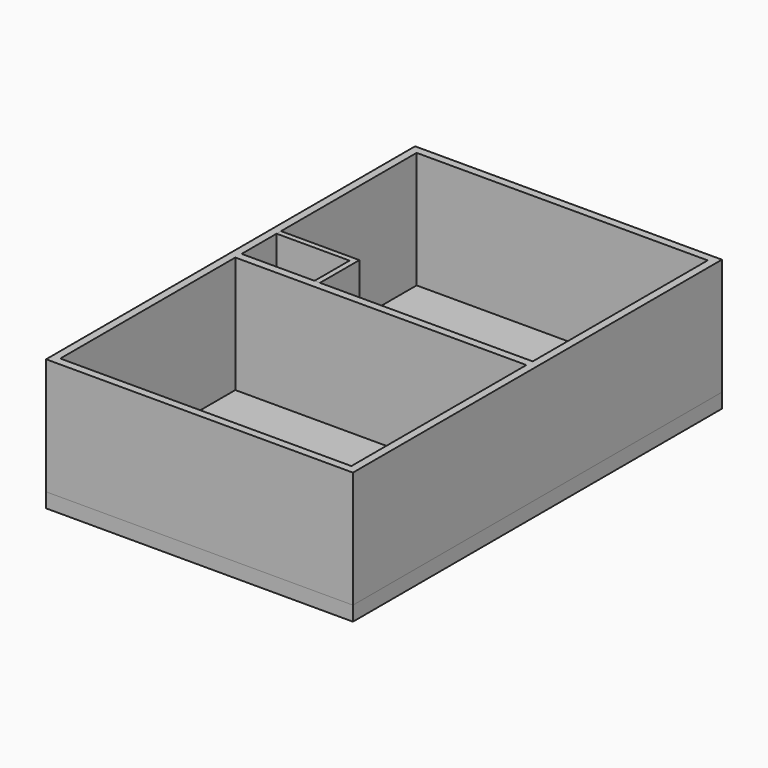
from build123d import *

# Parameters (mm, degrees)
F0_W     = 6413.5
F0_H     = 9639.3
F0_W_2   = 6083.3
F0_H_2   = 4572
F0_W_3   = 1524
F0_H_3   = 914.4
F0_W_4   = 609.6
F0_H_4   = 609.6
F1_DEPTH = 304.8
F2_DEPTH = 2438.4
F3_DEPTH = 2438.4


with BuildPart() as f1:
    # F0 (on Top) → F1 (new body)
    with BuildSketch(Plane.XY):
        Rectangle(F0_W, F0_H)
        with Locations((0, -2368.55)):
            Rectangle(F0_W_2, F0_H_2, mode=Mode.SUBTRACT)
        Polygon((-3041.65, 1111.25), (-3041.65, 4654.55), (3041.65, 4654.55), (3041.65, 82.55), (-31.75, 82.55), (-641.35, 82.55), (-793.75, 82.55), (-1403.35, 82.55), (-1517.65, 82.55), (-3041.65, 82.55), (-3041.65, 996.95), align=None, mode=Mode.SUBTRACT)
        with Locations((0, -2368.55)):
            Rectangle(F0_W_2, F0_H_2)
        Polygon((3041.65, 4654.55), (-3041.65, 4654.55), (-3041.65, 1111.25), (-1403.35, 1111.25), (-1403.35, 692.15), (-793.75, 692.15), (-793.75, 82.55), (-641.35, 82.55), (-641.35, 692.15), (-31.75, 692.15), (-31.75, 82.55), (3041.65, 82.55), align=None)
        with BuildLine():
            ThreePointArc((2807.579086147, 1149.35), (2868.4783837058, 1002.3260898945), (2889.25, 844.55))
            ThreePointArc((2889.25, 844.55), (2868.4783837058, 686.7739101055), (2807.579086147, 539.75))
            ThreePointArc((2807.579086147, 539.75), (2710.7022938113, 413.4977061887), (2584.45, 316.620913853))
            ThreePointArc((2584.45, 316.620913853), (2437.4260898945, 255.7216162942), (2279.65, 234.95))
            ThreePointArc((2279.65, 234.95), (2121.8739101055, 255.7216162942), (1974.85, 316.620913853))
            ThreePointArc((1974.85, 316.620913853), (1848.5977061887, 413.4977061887), (1751.720913853, 539.75))
            ThreePointArc((1751.720913853, 539.75), (1690.8216162942, 686.7739101055), (1670.05, 844.55))
            ThreePointArc((1670.05, 844.55), (1690.8216162942, 1002.3260898945), (1751.720913853, 1149.35))
            ThreePointArc((1751.720913853, 1149.35), (1848.5977061887, 1275.6022938113), (1974.85, 1372.479086147))
            ThreePointArc((1974.85, 1372.479086147), (2121.8739101055, 1433.3783837058), (2279.65, 1454.15))
            ThreePointArc((2279.65, 1454.15), (2437.4260898945, 1433.3783837058), (2584.45, 1372.479086147))
            ThreePointArc((2584.45, 1372.479086147), (2710.7022938113, 1275.6022938113), (2807.579086147, 1149.35))
        make_face(mode=Mode.SUBTRACT)
        with Locations((-2279.65, 539.75)):
            Rectangle(F0_W_3, F0_H_3)
        with Locations((-336.55, 387.35)):
            Rectangle(F0_W_4, F0_H_4)
        with Locations((-1098.55, 387.35)):
            Rectangle(F0_W_4, F0_H_4)
        Polygon((-1403.35, 1111.25), (-3041.65, 1111.25), (-3041.65, 996.95), (-1517.65, 996.95), (-1517.65, 82.55), (-1403.35, 82.55), (-1403.35, 692.15), align=None)
        with BuildLine():
            Line((2355.85, 844.55), (2889.25, 844.55))
            ThreePointArc((2889.25, 844.55), (2868.4783837058, 1002.3260898945), (2807.579086147, 1149.35))
            Line((2807.579086147, 1149.35), (2345.6411357684, 882.65))
            ThreePointArc((2345.6411357684, 882.65), (2353.2535479632, 864.2720112368), (2355.85, 844.55))
        make_face()
        with BuildLine():
            Line((2345.6411357684, 882.65), (2807.579086147, 1149.35))
            ThreePointArc((2807.579086147, 1149.35), (2710.7022938113, 1275.6022938113), (2584.45, 1372.479086147))
            Line((2584.45, 1372.479086147), (2317.75, 910.5411357684))
            ThreePointArc((2317.75, 910.5411357684), (2333.5315367264, 898.4315367264), (2345.6411357684, 882.65))
        make_face()
        with BuildLine():
            Line((2317.75, 910.5411357684), (2584.45, 1372.479086147))
            ThreePointArc((2584.45, 1372.479086147), (2437.4260898945, 1433.3783837058), (2279.65, 1454.15))
            Line((2279.65, 1454.15), (2279.65, 920.75))
            ThreePointArc((2279.65, 920.75), (2299.3720112368, 918.1535479632), (2317.75, 910.5411357684))
        make_face()
        with BuildLine():
            Line((2279.65, 920.75), (2279.65, 1454.15))
            ThreePointArc((2279.65, 1454.15), (2121.8739101055, 1433.3783837058), (1974.85, 1372.479086147))
            Line((1974.85, 1372.479086147), (2241.55, 910.5411357684))
            ThreePointArc((2241.55, 910.5411357684), (2259.9279887632, 918.1535479632), (2279.65, 920.75))
        make_face()
        with BuildLine():
            Line((1751.720913853, 1149.35), (2213.6588642316, 882.65))
            ThreePointArc((2213.6588642316, 882.65), (2225.7684632736, 898.4315367264), (2241.55, 910.5411357684))
            Line((2241.55, 910.5411357684), (1974.85, 1372.479086147))
            ThreePointArc((1974.85, 1372.479086147), (1848.5977061887, 1275.6022938113), (1751.720913853, 1149.35))
        make_face()
        with BuildLine():
            Line((1670.05, 844.55), (2203.45, 844.55))
            ThreePointArc((2203.45, 844.55), (2206.0464520368, 864.2720112368), (2213.6588642316, 882.65))
            Line((2213.6588642316, 882.65), (1751.720913853, 1149.35))
            ThreePointArc((1751.720913853, 1149.35), (1690.8216162942, 1002.3260898945), (1670.05, 844.55))
        make_face()
        with BuildLine():
            ThreePointArc((2213.6588642316, 806.45), (2206.0464520368, 824.8279887632), (2203.45, 844.55))
            Line((2203.45, 844.55), (1670.05, 844.55))
            ThreePointArc((1670.05, 844.55), (1690.8216162942, 686.7739101055), (1751.720913853, 539.75))
            Line((1751.720913853, 539.75), (2213.6588642316, 806.45))
        make_face()
        with BuildLine():
            ThreePointArc((2241.55, 778.5588642316), (2225.7684632736, 790.6684632736), (2213.6588642316, 806.45))
            Line((2213.6588642316, 806.45), (1751.720913853, 539.75))
            ThreePointArc((1751.720913853, 539.75), (1848.5977061887, 413.4977061887), (1974.85, 316.620913853))
            Line((1974.85, 316.620913853), (2241.55, 778.5588642316))
        make_face()
        with BuildLine():
            ThreePointArc((1974.85, 316.620913853), (2121.8739101055, 255.7216162942), (2279.65, 234.95))
            Line((2279.65, 234.95), (2279.65, 768.35))
            ThreePointArc((2279.65, 768.35), (2259.9279887632, 770.9464520368), (2241.55, 778.5588642316))
            Line((2241.55, 778.5588642316), (1974.85, 316.620913853))
        make_face()
        with BuildLine():
            ThreePointArc((2279.65, 234.95), (2437.4260898945, 255.7216162942), (2584.45, 316.620913853))
            Line((2584.45, 316.620913853), (2317.75, 778.5588642316))
            ThreePointArc((2317.75, 778.5588642316), (2299.3720112368, 770.9464520368), (2279.65, 768.35))
            Line((2279.65, 768.35), (2279.65, 234.95))
        make_face()
        with BuildLine():
            ThreePointArc((2584.45, 316.620913853), (2710.7022938113, 413.4977061887), (2807.579086147, 539.75))
            Line((2807.579086147, 539.75), (2345.6411357684, 806.45))
            ThreePointArc((2345.6411357684, 806.45), (2333.5315367264, 790.6684632736), (2317.75, 778.5588642316))
            Line((2317.75, 778.5588642316), (2584.45, 316.620913853))
        make_face()
        with BuildLine():
            ThreePointArc((2807.579086147, 539.75), (2868.4783837058, 686.7739101055), (2889.25, 844.55))
            Line((2889.25, 844.55), (2355.85, 844.55))
            ThreePointArc((2355.85, 844.55), (2353.2535479632, 824.8279887632), (2345.6411357684, 806.45))
            Line((2345.6411357684, 806.45), (2807.579086147, 539.75))
        make_face()
        with BuildLine():
            Line((2279.65, 844.55), (2355.85, 844.55))
            ThreePointArc((2355.85, 844.55), (2353.2535479632, 864.2720112368), (2345.6411357684, 882.65))
            Line((2345.6411357684, 882.65), (2279.65, 844.55))
        make_face()
        with BuildLine():
            Line((2279.65, 844.55), (2345.6411357684, 882.65))
            ThreePointArc((2345.6411357684, 882.65), (2333.5315367264, 898.4315367264), (2317.75, 910.5411357684))
            Line((2317.75, 910.5411357684), (2279.65, 844.55))
        make_face()
        with BuildLine():
            Line((2279.65, 920.75), (2279.65, 844.55))
            Line((2279.65, 844.55), (2317.75, 910.5411357684))
            ThreePointArc((2317.75, 910.5411357684), (2299.3720112368, 918.1535479632), (2279.65, 920.75))
        make_face()
        with BuildLine():
            Line((2241.55, 910.5411357684), (2279.65, 844.55))
            Line((2279.65, 844.55), (2279.65, 920.75))
            ThreePointArc((2279.65, 920.75), (2259.9279887632, 918.1535479632), (2241.55, 910.5411357684))
        make_face()
        with BuildLine():
            Line((2213.6588642316, 882.65), (2279.65, 844.55))
            Line((2279.65, 844.55), (2241.55, 910.5411357684))
            ThreePointArc((2241.55, 910.5411357684), (2225.7684632736, 898.4315367264), (2213.6588642316, 882.65))
        make_face()
        with BuildLine():
            Line((2203.45, 844.55), (2279.65, 844.55))
            Line((2279.65, 844.55), (2213.6588642316, 882.65))
            ThreePointArc((2213.6588642316, 882.65), (2206.0464520368, 864.2720112368), (2203.45, 844.55))
        make_face()
        with BuildLine():
            Line((2213.6588642316, 806.45), (2279.65, 844.55))
            Line((2279.65, 844.55), (2203.45, 844.55))
            ThreePointArc((2203.45, 844.55), (2206.0464520368, 824.8279887632), (2213.6588642316, 806.45))
        make_face()
        with BuildLine():
            Line((2241.55, 778.5588642316), (2279.65, 844.55))
            Line((2279.65, 844.55), (2213.6588642316, 806.45))
            ThreePointArc((2213.6588642316, 806.45), (2225.7684632736, 790.6684632736), (2241.55, 778.5588642316))
        make_face()
        with BuildLine():
            Line((2279.65, 768.35), (2279.65, 844.55))
            Line((2279.65, 844.55), (2241.55, 778.5588642316))
            ThreePointArc((2241.55, 778.5588642316), (2259.9279887632, 770.9464520368), (2279.65, 768.35))
        make_face()
        with BuildLine():
            Line((2317.75, 778.5588642316), (2279.65, 844.55))
            Line((2279.65, 844.55), (2279.65, 768.35))
            ThreePointArc((2279.65, 768.35), (2299.3720112368, 770.9464520368), (2317.75, 778.5588642316))
        make_face()
        with BuildLine():
            ThreePointArc((2317.75, 778.5588642316), (2333.5315367264, 790.6684632736), (2345.6411357684, 806.45))
            Line((2345.6411357684, 806.45), (2279.65, 844.55))
            Line((2279.65, 844.55), (2317.75, 778.5588642316))
        make_face()
        with BuildLine():
            ThreePointArc((2345.6411357684, 806.45), (2353.2535479632, 824.8279887632), (2355.85, 844.55))
            Line((2355.85, 844.55), (2279.65, 844.55))
            Line((2279.65, 844.55), (2345.6411357684, 806.45))
        make_face()
    extrude(amount=-F1_DEPTH)


with BuildPart() as f2:
    # F0 (on Top) → F2 (new body)
    with BuildSketch(Plane.XY):
        Rectangle(F0_W, F0_H)
        with Locations((0, -2368.55)):
            Rectangle(F0_W_2, F0_H_2, mode=Mode.SUBTRACT)
        Polygon((-3041.65, 1111.25), (-3041.65, 4654.55), (3041.65, 4654.55), (3041.65, 82.55), (-31.75, 82.55), (-641.35, 82.55), (-793.75, 82.55), (-1403.35, 82.55), (-1517.65, 82.55), (-3041.65, 82.55), (-3041.65, 996.95), align=None, mode=Mode.SUBTRACT)
    extrude(amount=F2_DEPTH)


with BuildPart() as f3:
    # F0 (on Top) → F3 (new body)
    with BuildSketch(Plane.XY):
        Polygon((-1403.35, 1111.25), (-3041.65, 1111.25), (-3041.65, 996.95), (-1517.65, 996.95), (-1517.65, 82.55), (-1403.35, 82.55), (-1403.35, 692.15), align=None)
    extrude(amount=F3_DEPTH)


solid = Compound([f1.part, f2.part, f3.part])
